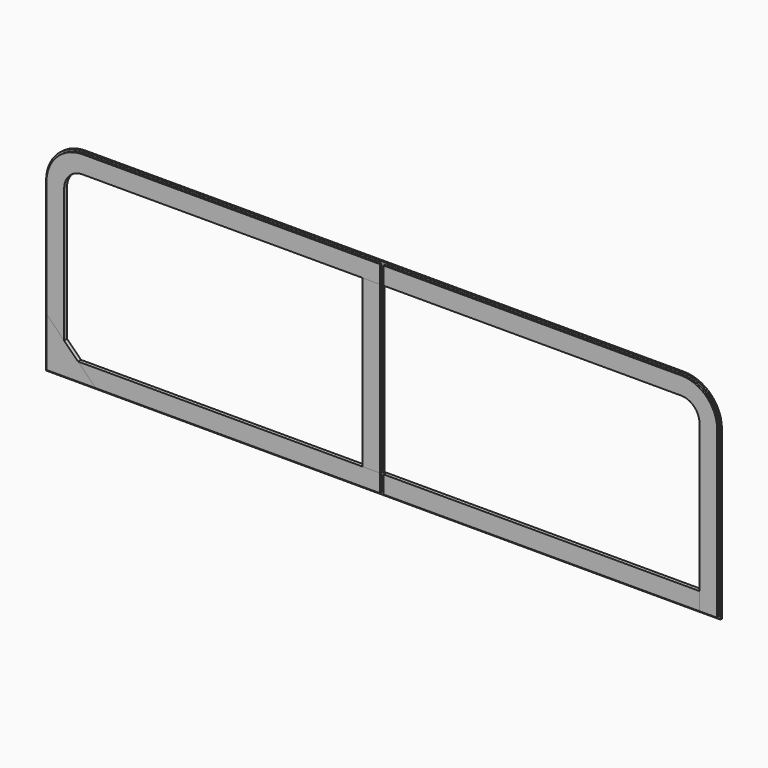
from build123d import *

# Parameters (mm, degrees)
F1_DEPTH  = 19.05
F3_W      = 1651
F3_H      = 194.611281
F4_DEPTH  = 19.051
F6_DEPTH  = 9.525
F7_W      = 1845.029831
F7_H      = 1326.859474
F8_DEPTH  = 19.051
F10_W     = 1651
F10_H     = 101.6
F11_DEPTH = 19.05
F12_W     = 1651
F12_H     = 9.525
F13_DEPTH = 9.525
F14_W     = 9.525
F14_H     = 92.075
F15_DEPTH = 9.525
F16_W     = 9.525
F16_H     = 92.075
F17_DEPTH = 9.525
F18_W     = 101.6
F18_H     = 863.6
F19_DEPTH = 19.05
F20_W     = 9.525
F20_H     = 863.6
F21_DEPTH = 9.525
F24_DEPTH = 19.05


with BuildPart() as f1:
    # F0 (on Front) → F1 (new body)
    with BuildSketch(Plane.XZ):
        with BuildLine():
            Line((-1752.6, -533.4), (1752.6, -533.4))
            Line((1752.6, -533.4), (1752.6, 336.55))
            ThreePointArc((1752.6, 336.55), (1694.94397, 475.74397), (1555.75, 533.4))
            Line((1555.75, 533.4), (-1555.75, 533.4))
            ThreePointArc((-1555.75, 533.4), (-1694.94397, 475.74397), (-1752.6, 336.55))
            Line((-1752.6, 336.55), (-1752.6, -533.4))
        make_face()
        with BuildLine():
            ThreePointArc((1555.75, 431.8), (1623.101921, 403.901921), (1651, 336.55))
            Line((1651, 336.55), (1651, -431.8))
            Line((1651, -431.8), (-1651, -431.8))
            Line((-1651, -431.8), (-1651, 336.55))
            ThreePointArc((-1651, 336.55), (-1623.101921, 403.901921), (-1555.75, 431.8))
            Line((-1555.75, 431.8), (1555.75, 431.8))
        make_face(mode=Mode.SUBTRACT)
    extrude(amount=F1_DEPTH)

    # F3 (on face) → F4 (cut, through all)
    with BuildSketch(Plane.XZ.offset(19.05)):
        with Locations((-825.5, -493.085877)):
            Rectangle(F3_W, F3_H)
    extrude(amount=-F4_DEPTH, mode=Mode.SUBTRACT)

    # F5 (on face) → F6 (cut)
    with BuildSketch(Plane.XZ.offset(19.05)):
        with BuildLine():
            Line((-1651, -523.875), (-1743.075, -523.875))
            Line((-1743.075, -523.875), (-1743.075, 336.55))
            ThreePointArc((-1743.075, 336.55), (-1688.208778, 469.008778), (-1555.75, 523.875))
            Line((-1555.75, 523.875), (161.150128, 523.875))
            Line((161.150128, 523.875), (161.150128, 533.4))
            Line((161.150128, 533.4), (-1555.75, 533.4))
            ThreePointArc((-1555.75, 533.4), (-1694.94397, 475.74397), (-1752.6, 336.55))
            Line((-1752.6, 336.55), (-1752.6, -533.4))
            Line((-1752.6, -533.4), (-1743.075, -533.4))
            Line((-1743.075, -533.4), (-1651, -533.4))
            Line((-1651, -533.4), (-1651, -523.875))
        make_face()
    extrude(amount=-F6_DEPTH, mode=Mode.SUBTRACT)

    # F7 (on face) → F8 (cut, through all)
    with BuildSketch(Plane.XZ.offset(19.05)):
        with Locations((922.514915, -28.048873)):
            Rectangle(F7_W, F7_H)
    extrude(amount=-F8_DEPTH, mode=Mode.SUBTRACT)

    # F14 (on face) → F15 (cut)
    with BuildSketch(Plane.XZ.offset(19.05)):
        with Locations((-4.7625, 477.8375)):
            Rectangle(F14_W, F14_H)
    extrude(amount=-F15_DEPTH, mode=Mode.SUBTRACT)


with BuildPart() as f11:
    # F10 (on face) → F11 (new body)
    with BuildSketch(Plane.XZ.offset(19.05)):
        with Locations((-825.5, -482.6)):
            Rectangle(F10_W, F10_H)
    extrude(amount=-F11_DEPTH)

    # F12 (on face) → F13 (cut)
    with BuildSketch(Plane.XZ.offset(19.05)):
        with Locations((-825.5, -528.6375)):
            Rectangle(F12_W, F12_H)
    extrude(amount=-F13_DEPTH, mode=Mode.SUBTRACT)

    # F16 (on face) → F17 (cut)
    with BuildSketch(Plane.XZ.offset(19.05)):
        with Locations((-4.7625, -477.8375)):
            Rectangle(F16_W, F16_H)
    extrude(amount=-F17_DEPTH, mode=Mode.SUBTRACT)


with BuildPart() as f19:
    # F18 (on Front) → F19 (new body)
    with BuildSketch(Plane.XZ):
        with Locations((-50.8, 0)):
            Rectangle(F18_W, F18_H)
    extrude(amount=F19_DEPTH)

    # F20 (on face) → F21 (cut)
    with BuildSketch(Plane.XZ.offset(19.05)):
        with Locations((-4.7625, 0)):
            Rectangle(F20_W, F20_H)
    extrude(amount=-F21_DEPTH, mode=Mode.SUBTRACT)


with BuildPart() as f22_1:
    # F22: instance of F1
    add(f1.part.mirror(Plane.YZ))


with BuildPart() as f24:
    # F23 (on Front) → F24 (new body)
    with BuildSketch(Plane.XZ):
        Polygon((-1489.075, -521.664971), (-1743.075, -267.664971), (-1743.075, -521.664971), align=None)
    extrude(amount=F24_DEPTH)


with BuildPart() as f25_1:
    # F25: instance of F11
    add(f11.part.mirror(Plane.YZ))


solid = Compound([f1.part, f11.part, f19.part, f22_1.part, f24.part, f25_1.part])
